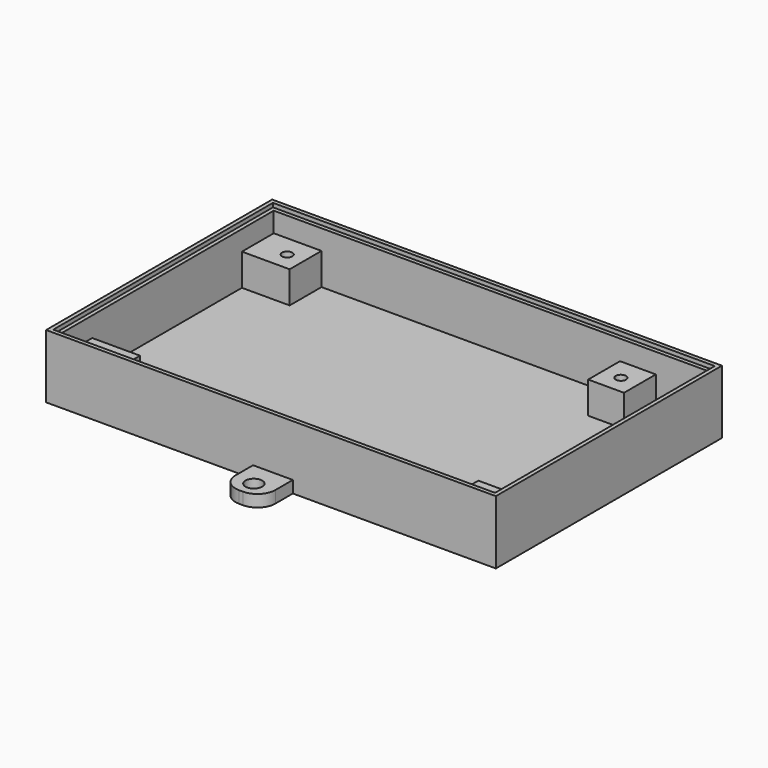
from build123d import *

# Parameters (mm, degrees)
CYLINDER009_R          = 2.1
CYLINDER009_DEPTH      = 3
BOX018_W               = 10
BOX018_H               = 12
BOX018_DEPTH           = 3
FILLET002_R            = 4.5
FILLET003_R            = 4.5
CUT018_PLACEMENT_ANGLE = 180
CYLINDER008_R          = 2.1
CYLINDER008_DEPTH      = 3
BOX017_W               = 10
BOX017_H               = 12
BOX017_DEPTH           = 3
FILLET_R               = 4.5
FILLET001_R            = 4.5
CYLINDER002_R          = 1.3
CYLINDER002_DEPTH      = 8
BOX016_W               = 9
BOX016_H               = 10
BOX016_DEPTH           = 8
CYLINDER003_R          = 1.3
CYLINDER003_DEPTH      = 8
BOX015_W               = 12
BOX015_H               = 10
BOX015_DEPTH           = 8
CYLINDER001_R          = 1.3
CYLINDER001_DEPTH      = 8
BOX013_W               = 12
BOX013_H               = 10
BOX013_DEPTH           = 8
CYLINDER_R             = 1.3
CYLINDER_DEPTH         = 8
BOX014_W               = 12
BOX014_H               = 10
BOX014_DEPTH           = 8
BOX003_W               = 111
BOX003_H               = 69
BOX003_DEPTH           = 1
BOX002_W               = 113
BOX002_H               = 71
BOX002_DEPTH           = 1
BOX001_W               = 109
BOX001_H               = 67
BOX001_DEPTH           = 13
BOX_W                  = 113
BOX_H                  = 71
BOX_DEPTH              = 15


with BuildPart() as zylinder001:
    # Cylinder009 → Cylinder009 (new body)
    with BuildSketch(Plane(origin=(5, 5, -23), x_dir=(1, 0, 0), z_dir=(0, 0, 1))):
        Circle(CYLINDER009_R)
    extrude(amount=CYLINDER009_DEPTH)


with BuildPart() as ear_u:
    # Box018 → Box018 (new body)
    with BuildSketch(Plane(origin=(0, -3, -23), x_dir=(1, 0, 0), z_dir=(0, 0, 1))):
        with Locations((5, 6)):
            Rectangle(BOX018_W, BOX018_H)
    extrude(amount=BOX018_DEPTH)

    # Fillet002
    fillet002_edges = [ear_u.edges().sort_by_distance(p)[0] for p in [
        (10, 9, -21.5),
    ]]
    fillet(fillet002_edges, radius=FILLET002_R)

    # Fillet003
    fillet003_edges = [ear_u.edges().sort_by_distance(p)[0] for p in [
        (0, 9, -21.5),
    ]]
    fillet(fillet003_edges, radius=FILLET003_R)

    # Cut018: cut Zylinder001
    add(zylinder001.part, mode=Mode.SUBTRACT)


with BuildPart() as ear_u_1:
    # Cut018 placement: moved
    add(ear_u.part.moved(Location((62, -73, 0))).rotate(Axis((62, -73, 0), (0, 0, 1)), CUT018_PLACEMENT_ANGLE))


with BuildPart() as zylinder:
    # Cylinder008 → Cylinder008 (new body)
    with BuildSketch(Plane(origin=(5, 5, -23), x_dir=(1, 0, 0), z_dir=(0, 0, 1))):
        Circle(CYLINDER008_R)
    extrude(amount=CYLINDER008_DEPTH)


with BuildPart() as ear_o:
    # Box017 → Box017 (new body)
    with BuildSketch(Plane(origin=(0, -3, -23), x_dir=(1, 0, 0), z_dir=(0, 0, 1))):
        with Locations((5, 6)):
            Rectangle(BOX017_W, BOX017_H)
    extrude(amount=BOX017_DEPTH)

    # Fillet
    fillet_edges = [ear_o.edges().sort_by_distance(p)[0] for p in [
        (10, 9, -21.5),
    ]]
    fillet(fillet_edges, radius=FILLET_R)

    # Fillet001
    fillet001_edges = [ear_o.edges().sort_by_distance(p)[0] for p in [
        (0, 9, -21.5),
    ]]
    fillet(fillet001_edges, radius=FILLET001_R)

    # Cut017: cut Zylinder
    add(zylinder.part, mode=Mode.SUBTRACT)


with BuildPart() as ear_o_1:
    # Cut017 placement: moved
    add(ear_o.part.moved(Location((52, 0, 0))))


with BuildPart() as obj1:
    # Cylinder002 → Cylinder002 (new body)
    with BuildSketch(Plane(origin=(93.55, -8.4, -10), x_dir=(1, 0, 0), z_dir=(0, 0, 1))):
        Circle(CYLINDER002_R)
    extrude(amount=CYLINDER002_DEPTH)


with BuildPart() as obj2:
    # Box016 → Box016 (new body)
    with BuildSketch(Plane(origin=(89, -13, -10), x_dir=(1, 0, 0), z_dir=(0, 0, 1))):
        with Locations((4.5, 5)):
            Rectangle(BOX016_W, BOX016_H)
    extrude(amount=BOX016_DEPTH)

    # Cut011: cut obj1
    add(obj1.part, mode=Mode.SUBTRACT)


with BuildPart() as obj3:
    # Cylinder003 → Cylinder003 (new body)
    with BuildSketch(Plane(origin=(103.7, -64.3, -10), x_dir=(1, 0, 0), z_dir=(0, 0, 1))):
        Circle(CYLINDER003_R)
    extrude(amount=CYLINDER003_DEPTH)


with BuildPart() as obj4:
    # Box015 → Box015 (new body)
    with BuildSketch(Plane(origin=(99, -70, -10), x_dir=(1, 0, 0), z_dir=(0, 0, 1))):
        with Locations((6, 5)):
            Rectangle(BOX015_W, BOX015_H)
    extrude(amount=BOX015_DEPTH)

    # Cut012: cut obj3
    add(obj3.part, mode=Mode.SUBTRACT)


with BuildPart() as obj5:
    # Cylinder001 → Cylinder001 (new body)
    with BuildSketch(Plane(origin=(9.7, -64.3, -10), x_dir=(1, 0, 0), z_dir=(0, 0, 1))):
        Circle(CYLINDER001_R)
    extrude(amount=CYLINDER001_DEPTH)


with BuildPart() as obj6:
    # Box013 → Box013 (new body)
    with BuildSketch(Plane(origin=(2, -70, -10), x_dir=(1, 0, 0), z_dir=(0, 0, 1))):
        with Locations((6, 5)):
            Rectangle(BOX013_W, BOX013_H)
    extrude(amount=BOX013_DEPTH)

    # Cut010: cut obj5
    add(obj5.part, mode=Mode.SUBTRACT)


with BuildPart() as fasteninghole_lo:
    # Cylinder → Cylinder (new body)
    with BuildSketch(Plane(origin=(9.7, -8.4, -10), x_dir=(1, 0, 0), z_dir=(0, 0, 1))):
        Circle(CYLINDER_R)
    extrude(amount=CYLINDER_DEPTH)


with BuildPart() as fasteningblock_lo:
    # Box014 → Box014 (new body)
    with BuildSketch(Plane(origin=(2, -13, -10), x_dir=(1, 0, 0), z_dir=(0, 0, 1))):
        with Locations((6, 5)):
            Rectangle(BOX014_W, BOX014_H)
    extrude(amount=BOX014_DEPTH)

    # Cut009: cut FasteningHole_LO
    add(fasteninghole_lo.part, mode=Mode.SUBTRACT)


with BuildPart() as casebottomlip_in:
    # Box003 → Box003 (new body)
    with BuildSketch(Plane(origin=(1, -71, 3), x_dir=(1, 0, 0), z_dir=(0, 0, 1))):
        with Locations((55.5, 34.5)):
            Rectangle(BOX003_W, BOX003_H)
    extrude(amount=BOX003_DEPTH)


with BuildPart() as casebottomlip:
    # Box002 → Box002 (new body)
    with BuildSketch(Plane(origin=(0, -72, 3), x_dir=(1, 0, 0), z_dir=(0, 0, 1))):
        with Locations((56.5, 35.5)):
            Rectangle(BOX002_W, BOX002_H)
    extrude(amount=BOX002_DEPTH)

    # Cut001: cut CaseBottomLip_In
    add(casebottomlip_in.part, mode=Mode.SUBTRACT)


with BuildPart() as casebottombed_in:
    # Box001 → Box001 (new body)
    with BuildSketch(Plane(origin=(2, -70, -10), x_dir=(1, 0, 0), z_dir=(0, 0, 1))):
        with Locations((54.5, 33.5)):
            Rectangle(BOX001_W, BOX001_H)
    extrude(amount=BOX001_DEPTH)


with BuildPart() as casebottom:
    # Box → Box (new body)
    with BuildSketch(Plane(origin=(0, -72, -12), x_dir=(1, 0, 0), z_dir=(0, 0, 1))):
        with Locations((56.5, 35.5)):
            Rectangle(BOX_W, BOX_H)
    extrude(amount=BOX_DEPTH)

    # Cut: cut CaseBottomBed_In
    add(casebottombed_in.part, mode=Mode.SUBTRACT)

    # Fusion: union CaseBottomLip
    add(casebottomlip.part)

    # Fusion002: union FasteningBlock_LO
    add(fasteningblock_lo.part)

    # Fusion003: union obj6
    add(obj6.part)

    # Fusion004: union obj4
    add(obj4.part)

    # Fusion005: union obj2
    add(obj2.part)


with BuildPart() as casebottom_1:
    # Fusion005 placement: moved
    add(casebottom.part.moved(Location((0, 0, -11))))

    # Fusion010: union Ear_O
    add(ear_o_1.part)

    # Fusion011: union Ear_U
    add(ear_u_1.part)


solid = casebottom_1.part
